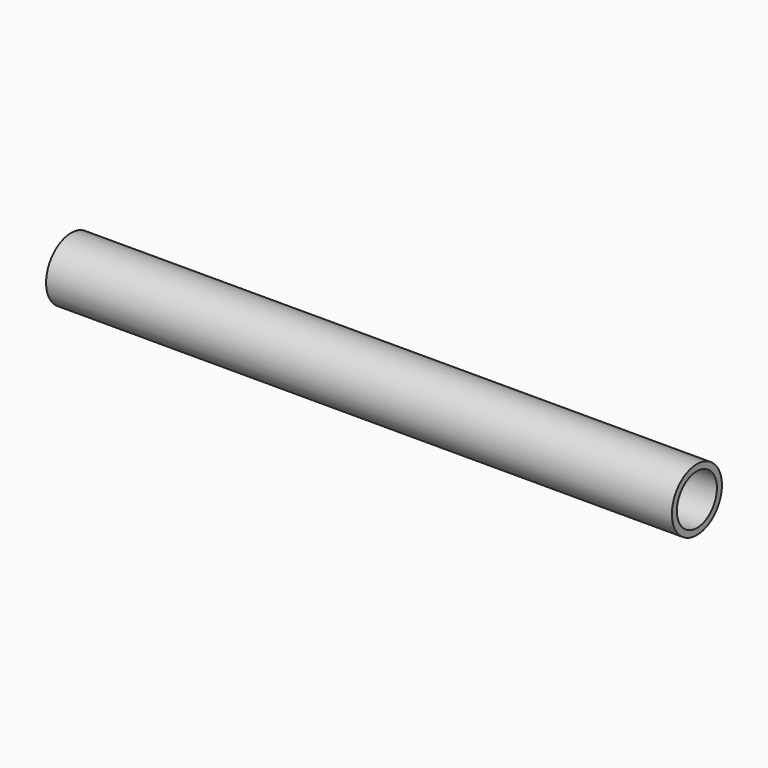
from build123d import *

# Parameters (mm, degrees)
CYLINDER007_R           = 6
CYLINDER007_DEPTH       = 236
CYLINDER007_PITCH_ANGLE = 90
CYLINDER003_R           = 5.5
CYLINDER003_DEPTH       = 150
CYLINDER003_PITCH_ANGLE = 90
CYLINDER_R              = 7.5
CYLINDER_DEPTH          = 150
CYLINDER_PITCH_ANGLE    = 90


with BuildPart() as connector_bore:
    # Cylinder007 → Cylinder007 (new body)
    with BuildSketch(Plane.XY):
        Circle(CYLINDER007_R)
    extrude(amount=CYLINDER007_DEPTH)


with BuildPart() as connector_bore_1:
    # Cylinder007 pitch: moved
    add(connector_bore.part.rotate(Axis((0, 0, 0), (0, 1, 0)), CYLINDER007_PITCH_ANGLE))


with BuildPart() as connector_bore_2:
    # Cylinder007 placement: moved
    add(connector_bore_1.part.moved(Location((-45, 0, 0))))


with BuildPart() as obj1:
    # Cylinder003 → Cylinder003 (new body)
    with BuildSketch(Plane.XY):
        Circle(CYLINDER003_R)
    extrude(amount=CYLINDER003_DEPTH)


with BuildPart() as obj1_1:
    # Cylinder003 pitch: moved
    add(obj1.part.rotate(Axis((0, 0, 0), (0, 1, 0)), CYLINDER003_PITCH_ANGLE))


with BuildPart() as obj1_2:
    # Cylinder003 placement: moved
    add(obj1_1.part)


with BuildPart() as cut006:
    # Cylinder → Cylinder (new body)
    with BuildSketch(Plane.XY):
        Circle(CYLINDER_R)
    extrude(amount=CYLINDER_DEPTH)


with BuildPart() as cut006_1:
    # Cylinder pitch: moved
    add(cut006.part.rotate(Axis((0, 0, 0), (0, 1, 0)), CYLINDER_PITCH_ANGLE))


with BuildPart() as cut006_2:
    # Cylinder placement: moved
    add(cut006_1.part)

    # Cut: cut obj1
    add(obj1_2.part, mode=Mode.SUBTRACT)

    # Cut006: cut connector_bore
    add(connector_bore_2.part, mode=Mode.SUBTRACT)


solid = cut006_2.part
